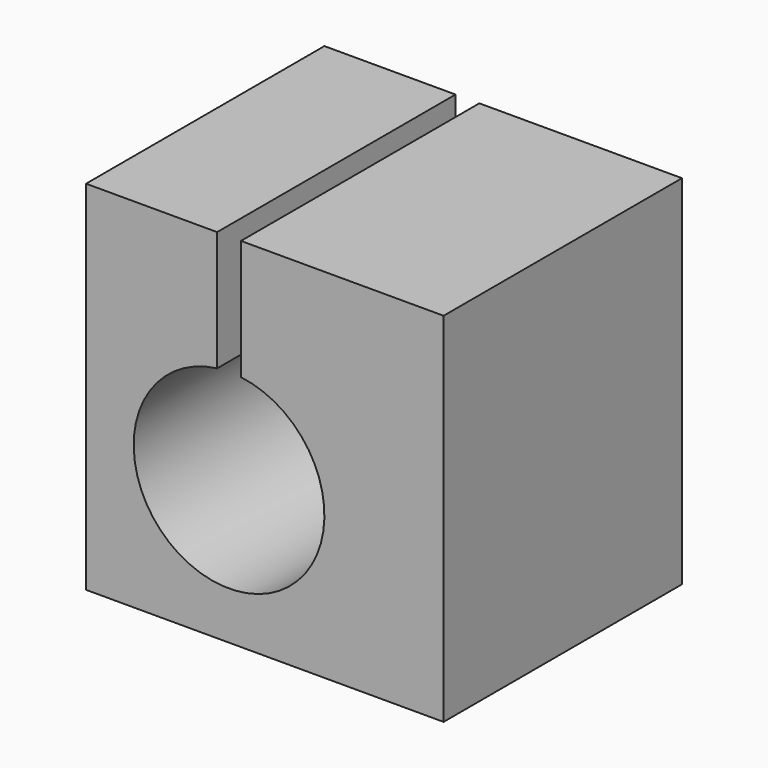
from build123d import *

# Parameters (mm, degrees)
F1_DEPTH = 12.5
F3_D     = 5.5
F3_DEPTH = 12
F3_TIP   = 1.6523667023
F5_D     = 4.2
F5_DEPTH = 8
F5_TIP   = 1.2618073
F7_D     = 4.2
F7_DEPTH = 14
F7_TIP   = 1.2618073


with BuildPart() as f1:
    # F0 (on Front) → F1 (new body, symmetric)
    with BuildSketch(Plane.XZ):
        with BuildLine():
            Line((15, -15), (15, 15))
            Line((15, 15), (-2, 15))
            Line((-2, 15), (-2, 4.9372539332))
            ThreePointArc((-2, 4.9372539332), (-3, -11), (-4, 4.9372539332))
            Line((-4, 4.9372539332), (-4, 15))
            Line((-4, 15), (-15, 15))
            Line((-15, 15), (-15, -15))
            Line((-15, -15), (15, -15))
        make_face()
    extrude(amount=F1_DEPTH, both=True)

    # F3
    with Locations(Plane(origin=(-15, 0, 0), x_dir=(0, -1, 0), z_dir=(-1, 0, 0))):
        with Locations((0, 9)):
            Hole(F3_D / 2, depth=F3_DEPTH)
            with Locations((0, 0, -(F3_DEPTH + F3_TIP / 2))):  # 118° drill point
                Cone(0, F3_D / 2, F3_TIP, mode=Mode.SUBTRACT)

    # F5
    with Locations(Plane(origin=(-2, 0, 0), x_dir=(0, -1, 0), z_dir=(-1, 0, 0))):
        with Locations((0, 9)):
            Hole(F5_D / 2, depth=F5_DEPTH)
            with Locations((0, 0, -(F5_DEPTH + F5_TIP / 2))):  # 118° drill point
                Cone(0, F5_D / 2, F5_TIP, mode=Mode.SUBTRACT)

    # F7
    with Locations(Plane(origin=(0, 0, -15), x_dir=(1, 0, 0), z_dir=(0, 0, -1))):
        with Locations((9, 6.5), (9, -6.5)):
            Hole(F7_D / 2, depth=F7_DEPTH)
            with Locations((0, 0, -(F7_DEPTH + F7_TIP / 2))):  # 118° drill point
                Cone(0, F7_D / 2, F7_TIP, mode=Mode.SUBTRACT)


solid = f1.part
